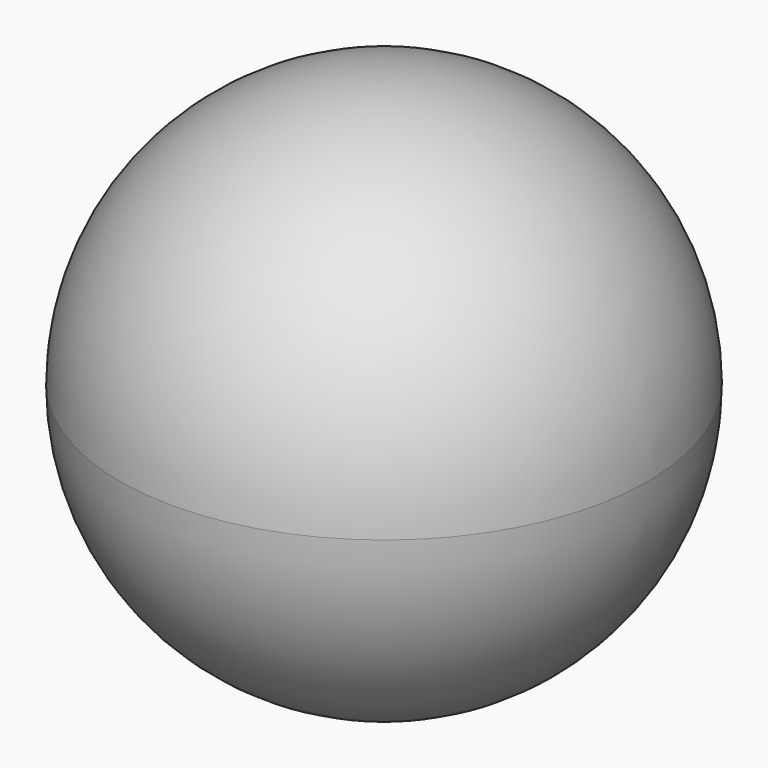
from build123d import *

# Parameters (mm, degrees)
F2_T = -2.54


with BuildPart() as f1:
    # F0 (on Front) → F1 (revolve)
    with BuildSketch(Plane.XZ):
        with BuildLine():
            ThreePointArc((0, -73.1882743052), (51.7519250646, -51.7519250646), (73.1882743052, 0))
            ThreePointArc((73.1882743052, 0), (51.7519250646, 51.7519250646), (0, 73.1882743052))
            Line((0, 73.1882743052), (0, -73.1882743052))
        make_face()
    revolve(axis=Axis((0, 0, 0), (0, 0, -1)))

    # F2 (hollow: no face is removed)
    offset(amount=F2_T, mode=Mode.SUBTRACT)


solid = f1.part
